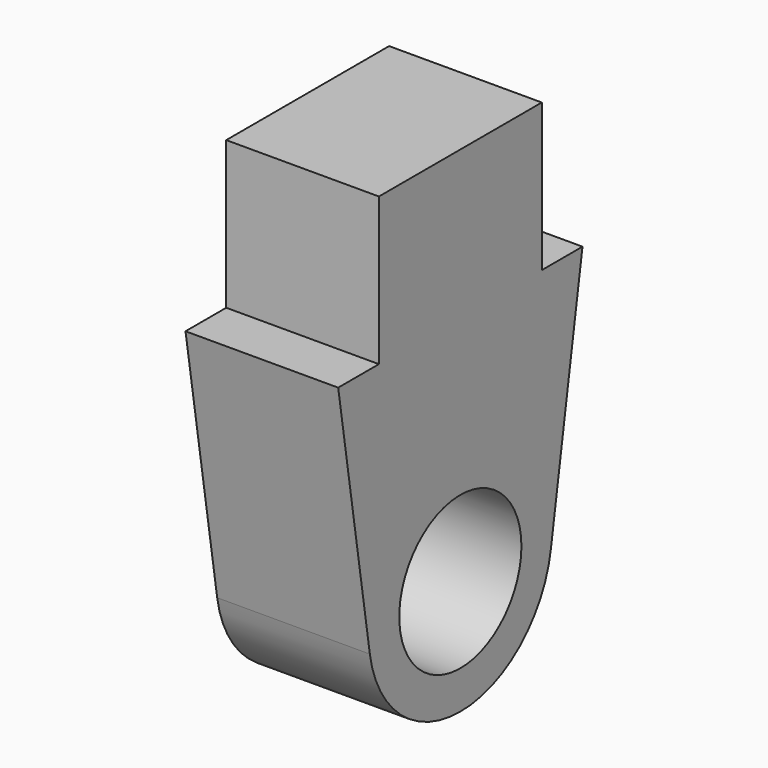
from build123d import *

# Parameters (mm, degrees)
F0_R     = 1.5
F0_W     = 4
F0_H     = 2.9
F1_DEPTH = 3


with BuildPart() as f1:
    # F0 (on Right) → F1 (new body)
    with BuildSketch(Plane.YZ):
        with BuildLine():
            ThreePointArc((2.222473, -0.350876), (2.243108, -0.175977), (2.25, 0))
            ThreePointArc((2.25, 0), (-0.175977, 2.243108), (-2.222473, -0.350876))
            ThreePointArc((-2.222473, -0.350876), (0, -2.25), (2.222473, -0.350876))
        make_face()
        Circle(F0_R, mode=Mode.SUBTRACT)
        with BuildLine():
            ThreePointArc((-2.222473, -0.350876), (-0.175977, 2.243108), (2.25, 0))
            ThreePointArc((2.25, 0), (2.243108, -0.175977), (2.222473, -0.350876))
            Line((2.222473, -0.350876), (3, 4.574038))
            Line((3, 4.574038), (2, 4.574038))
            Line((2, 4.574038), (-2, 4.574038))
            Line((-2, 4.574038), (-3, 4.574038))
            Line((-3, 4.574038), (-2.222473, -0.350876))
        make_face()
        with Locations((0, 6.024038)):
            Rectangle(F0_W, F0_H)
    extrude(amount=F1_DEPTH)


solid = f1.part
